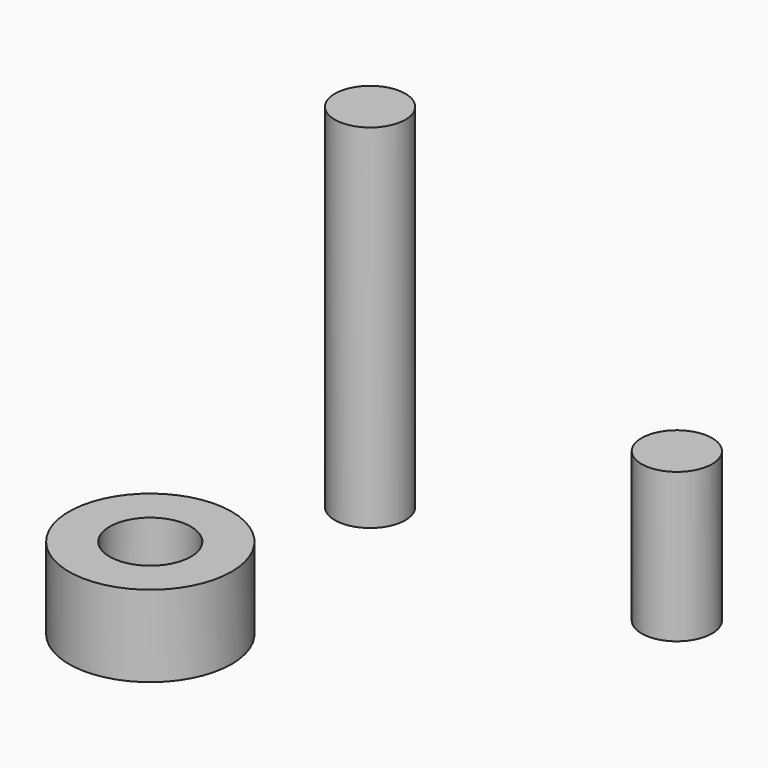
from build123d import *

# Parameters (mm, degrees)
F0_R     = 1.3
F1_DEPTH = 5.5
F2_DEPTH = 13
F0_R_2   = 3
F0_R_3   = 1.5
F3_DEPTH = 3


with BuildPart() as f1:
    # F0 (on Top) → F1 (new body)
    with BuildSketch(Plane.XY):
        with Locations((5.474466, 3.100654)):
            Circle(F0_R)
    extrude(amount=F1_DEPTH)


with BuildPart() as f2:
    # F0 (on Top) → F2 (new body)
    with BuildSketch(Plane.XY):
        with Locations((-5.834304, 3.100654)):
            Circle(F0_R)
    extrude(amount=F2_DEPTH)


with BuildPart() as f3:
    # F0 (on Top) → F3 (new body)
    with BuildSketch(Plane.XY):
        with Locations((-5.834304, -7.029991)):
            Circle(F0_R_2)
        with Locations((-5.834304, -7.029991)):
            Circle(F0_R_3, mode=Mode.SUBTRACT)
    extrude(amount=F3_DEPTH)


solid = Compound([f1.part, f2.part, f3.part])
